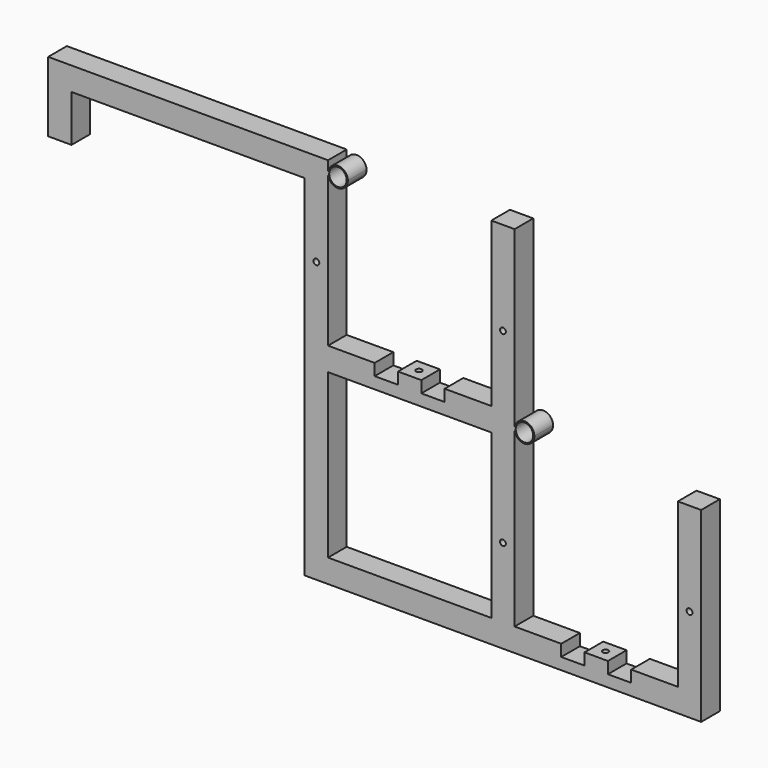
from build123d import *

# Parameters (mm, degrees)
F0_R     = 3.175
F0_W     = 254
F0_H     = 25.4
F0_R_2   = 9.525
F1_DEPTH = 25.4
F2_R     = 3.175
F3_DEPTH = 25.4
F4_R     = 3.175
F5_DEPTH = 25.4


with BuildPart() as f1:
    # F0 (on Front) → F1 (new body)
    with BuildSketch(Plane.XZ):
        with BuildLine():
            Line((152.4, 0), (152.4, 0.357573))
            ThreePointArc((152.4, 0.357573), (152.398519, 0.178787), (152.4, 0))
        make_face()
        Polygon((152.4, -165.1), (152.4, -190.5), (330.2, -190.5), (330.2, -165.1), (279.4, -165.1), (279.4, -177.8), (254, -177.8), (254, -165.1), (228.6, -165.1), (228.6, -177.8), (203.2, -177.8), (203.2, -165.1), align=None)
        with BuildLine():
            Line((330.2, -190.5), (330.2, -368.3))
            Line((330.2, -368.3), (355.6, -368.3))
            Line((355.6, -368.3), (355.6, -179.625511))
            ThreePointArc((355.6, -179.625511), (355.561342, -178.712756), (355.6, -177.8))
            Line((355.6, -177.8), (355.6, 12.7))
            Line((355.6, 12.7), (330.2, 12.7))
            Line((330.2, 12.7), (330.2, -165.1))
            Line((330.2, -165.1), (330.2, -190.5))
        make_face()
        with Locations((342.9, -292.1)):
            Circle(F0_R, mode=Mode.SUBTRACT)
        with Locations((342.9, -88.9)):
            Circle(F0_R, mode=Mode.SUBTRACT)
        Polygon((533.4, -368.3), (533.4, -393.7), (558.8, -393.7), (558.8, -190.5), (533.4, -190.5), align=None)
        with Locations((546.1, -292.1)):
            Circle(F0_R, mode=Mode.SUBTRACT)
        Polygon((-127, -63.5), (-127, -12.7), (-127, 12.7), (-152.4, 12.7), (-152.4, -63.5), align=None)
        with BuildLine():
            Line((127, 12.7), (127, -12.7))
            Line((127, -12.7), (127, -393.7))
            Line((127, -393.7), (152.4, -393.7))
            Line((152.4, -393.7), (152.4, -368.3))
            Line((152.4, -368.3), (152.4, -190.5))
            Line((152.4, -190.5), (152.4, -165.1))
            Line((152.4, -165.1), (152.4, 0))
            ThreePointArc((152.4, 0), (152.398519, 0.178787), (152.4, 0.357573))
            Line((152.4, 0.357573), (152.4, 12.7))
            Line((152.4, 12.7), (127, 12.7))
        make_face()
        with Locations((139.7, -88.9)):
            Circle(F0_R, mode=Mode.SUBTRACT)
        Rectangle(F0_W, F0_H)
        with BuildLine():
            ThreePointArc((355.6, -177.8), (355.561342, -178.712756), (355.6, -179.625511))
            Line((355.6, -179.625511), (355.6, -177.8))
        make_face()
        with BuildLine():
            ThreePointArc((173.988519, 0.178787), (163.282916, 10.973416), (152.4, 0.357573))
            Line((152.4, 0.357573), (152.4, 0))
            ThreePointArc((152.4, 0), (163.282916, -10.615843), (173.988519, 0.178787))
        make_face()
        with Locations((163.193519, 0.178787)):
            Circle(F0_R_2, mode=Mode.SUBTRACT)
        with BuildLine():
            Line((355.6, -177.8), (355.6, -179.625511))
            ThreePointArc((355.6, -179.625511), (366.813129, -189.498087), (377.151342, -178.712756))
            ThreePointArc((377.151342, -178.712756), (366.813129, -167.927424), (355.6, -177.8))
        make_face()
        with Locations((366.356342, -178.712756)):
            Circle(F0_R_2, mode=Mode.SUBTRACT)
        Polygon((152.4, -368.3), (152.4, -393.7), (533.4, -393.7), (533.4, -368.3), (482.6, -368.3), (482.6, -381), (457.2, -381), (457.2, -368.3), (431.8, -368.3), (431.8, -381), (406.4, -381), (406.4, -368.3), (355.6, -368.3), (330.2, -368.3), align=None)
    extrude(amount=F1_DEPTH)

    # F2 (on face) → F3 (cut)
    with BuildSketch(Plane.XY.offset(-165.1)):
        with Locations((241.3, -12.7)):
            Circle(F2_R)
    extrude(amount=-F3_DEPTH, mode=Mode.SUBTRACT)

    # F4 (on face) → F5 (cut)
    with BuildSketch(Plane.XY.offset(-368.3)):
        with Locations((444.5, -12.7)):
            Circle(F4_R)
    extrude(amount=-F5_DEPTH, mode=Mode.SUBTRACT)


solid = f1.part
